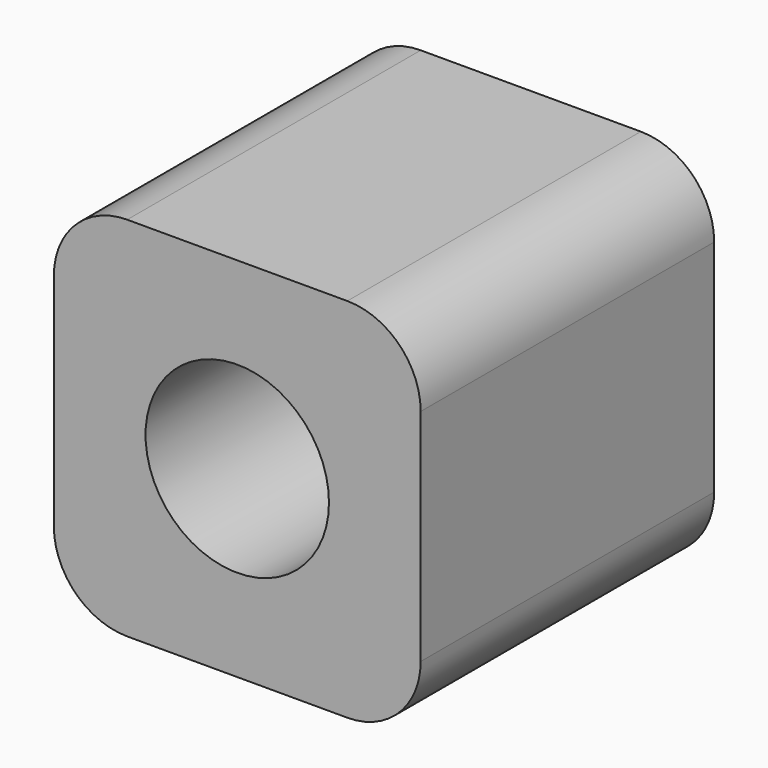
from build123d import *

# Parameters (mm, degrees)
F0_R     = 25
F1_DEPTH = 100


with BuildPart() as f1:
    # F0 (on Front) → F1 (new body)
    with BuildSketch(Plane.XZ):
        with BuildLine():
            ThreePointArc((-50, -30), (-44.142136, -44.142136), (-30, -50))
            Line((-30, -50), (30, -50))
            ThreePointArc((30, -50), (44.142136, -44.142136), (50, -30))
            Line((50, -30), (50, 30))
            ThreePointArc((50, 30), (44.142136, 44.142136), (30, 50))
            Line((30, 50), (-30, 50))
            ThreePointArc((-30, 50), (-44.142136, 44.142136), (-50, 30))
            Line((-50, 30), (-50, -30))
        make_face()
        Circle(F0_R, mode=Mode.SUBTRACT)
    extrude(amount=F1_DEPTH)


solid = f1.part
